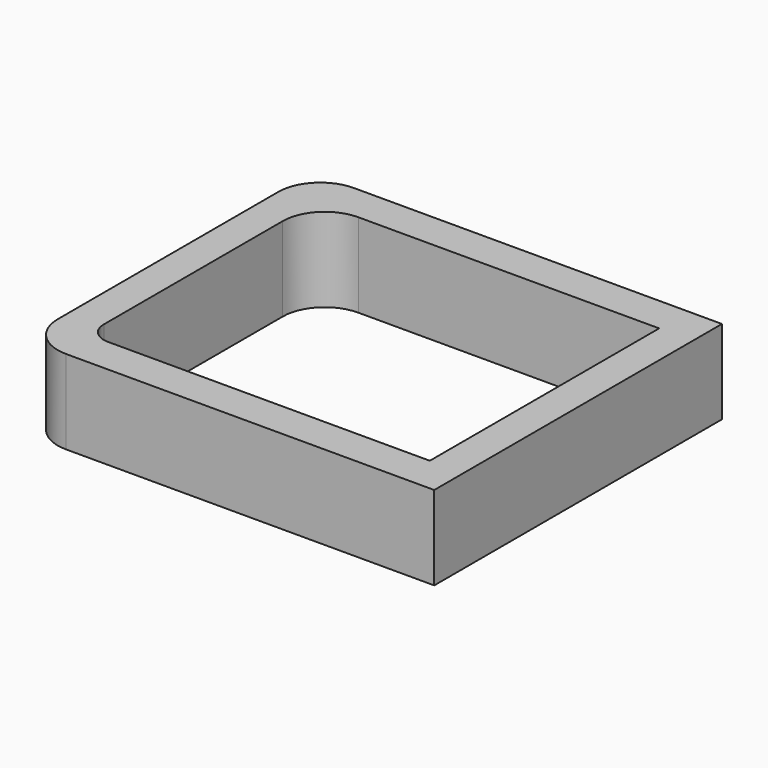
from build123d import *

# Parameters (mm, degrees)
F0_W     = 488.089332
F0_H     = 428.058626
F0_W_2   = 408.089332
F0_H_2   = 341.250144
F1_DEPTH = 100
F2_R     = 50
F3_R     = 25


with BuildPart() as f1:
    # F0 (on Top) → F1 (new body)
    with BuildSketch(Plane.XY):
        Rectangle(F0_W, F0_H)
        Rectangle(F0_W_2, F0_H_2, mode=Mode.SUBTRACT)
    extrude(amount=F1_DEPTH)

    # F2
    f2_edges = [f1.edges().sort_by_distance(p)[0] for p in [
        (-244.044666, 214.029313, 50),
        (-244.044666, -214.029313, 50),
        (-204.044666, 170.625072, 50),
    ]]
    fillet(f2_edges, radius=F2_R)

    # F3
    f3_edges = [f1.edges().sort_by_distance(p)[0] for p in [
        (-204.044666, -170.625072, 50),
    ]]
    fillet(f3_edges, radius=F3_R)


solid = f1.part
